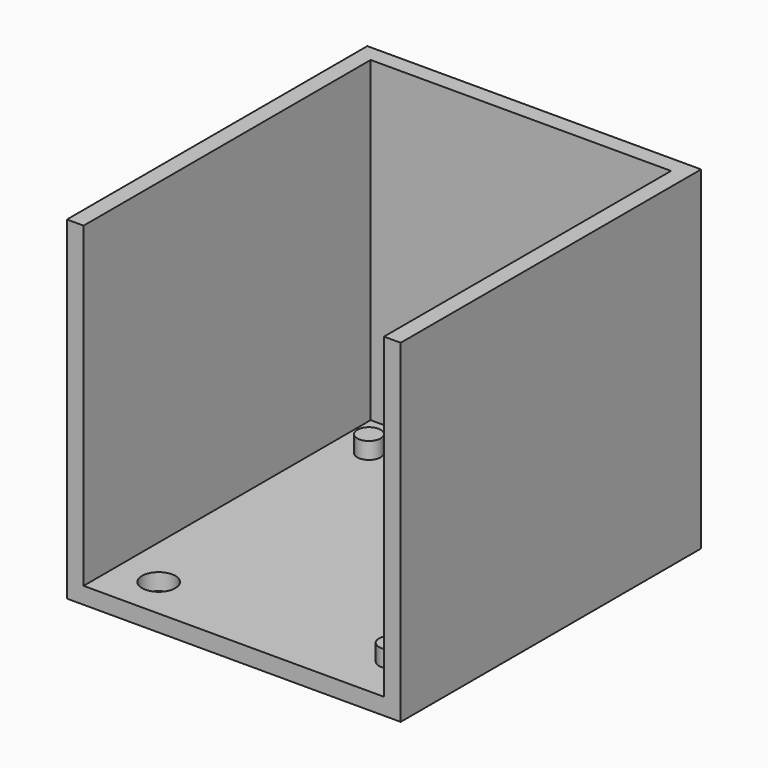
from build123d import *

# Parameters (mm, degrees)
SKETCH_W        = 40
SKETCH_H        = 45
PAD_DEPTH       = 40
SKETCH001_W     = 36
SKETCH001_H     = 46.060933
POCKET_DEPTH    = 38
SKETCH002_R     = 1.4
PAD001_DEPTH    = 2
SKETCH003_R     = 2
POCKET001_DEPTH = 5


with BuildPart() as part:
    # Sketch → Pad (new body)
    with BuildSketch(Plane.XY):
        with Locations((33.946524, 23.135794)):
            Rectangle(SKETCH_W, SKETCH_H)
    extrude(amount=PAD_DEPTH)

    # Sketch001 → Pocket (cut)
    with BuildSketch(Plane.XY.offset(40)):
        with Locations((33.946524, 20.605327)):
            Rectangle(SKETCH001_W, SKETCH001_H)
    extrude(amount=-POCKET_DEPTH, mode=Mode.SUBTRACT)

    # Sketch002 → Pad001 (new body)
    with BuildSketch(Plane.XY.offset(2)):
        with Locations((19.987469, 38.329725)):
            Circle(SKETCH002_R)
        with Locations((47.987469, 6.579725)):
            Circle(SKETCH002_R)
    extrude(amount=PAD001_DEPTH)

    # Sketch003 → Pocket001 (cut)
    with BuildSketch(Plane.XY.offset(2)):
        with Locations((46.946524, 38.635794)):
            Circle(SKETCH003_R)
        with Locations((20.946524, 5.635794)):
            Circle(SKETCH003_R)
    extrude(amount=-POCKET001_DEPTH, mode=Mode.SUBTRACT)


solid = part.part
